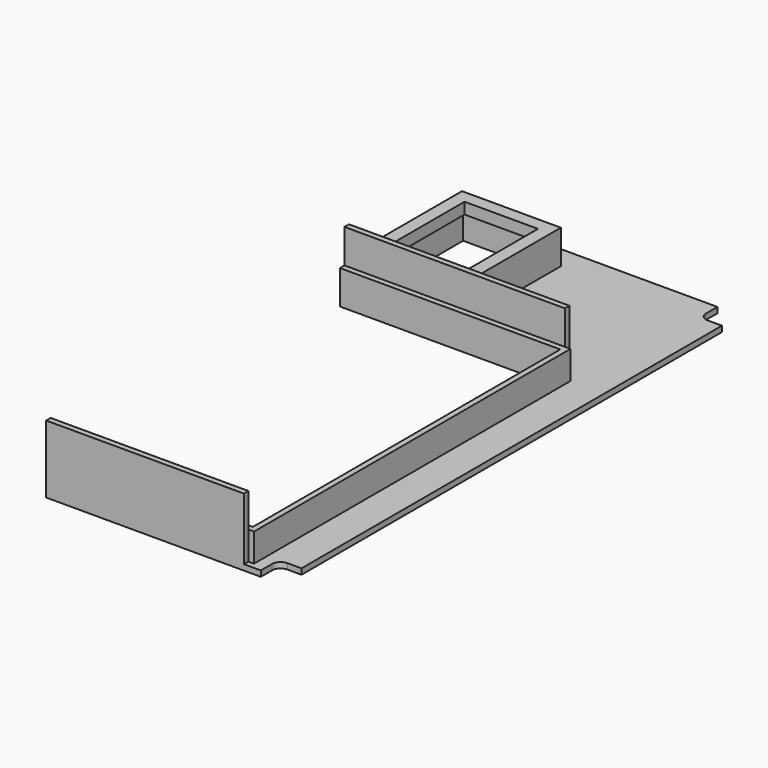
from build123d import *

# Parameters (mm, degrees)
F2_W      = 46
F2_H      = 101
F3_DEPTH  = 1
F5_DEPTH  = 1
F6_W      = 39
F6_H      = 68
F7_DEPTH  = 1
F8_W      = 39
F8_H      = 1
F8_W_2    = 35
F9_DEPTH  = 11
F10_W     = 1
F10_H     = 68
F11_DEPTH = 5
F12_W     = 17.5
F12_H     = 23.5
F12_W_2   = 15.5
F12_H_2   = 21.5
F13_DEPTH = 4
F14_W     = 15.5
F14_H     = 21.5
F15_DEPTH = 1
F16_W     = 17.5
F16_H     = 23.5
F16_W_2   = 13
F16_H_2   = 19
F17_DEPTH = 2


with BuildPart() as f3:
    # F2 (on Top) → F3 (new body)
    with BuildSketch(Plane.XY):
        Rectangle(F2_W, F2_H)
    extrude(amount=F3_DEPTH)

    # F4 (on face) → F5 (cut, through all)
    with BuildSketch(Plane.XY.offset(1)):
        with BuildLine():
            Line((-19, 50.5), (-23, 50.5))
            Line((-23, 50.5), (-23, 46.5))
            Line((-23, 46.5), (-20.5, 46.5))
            ThreePointArc((-20.5, 46.5), (-19.4393398282, 46.9393398282), (-19, 48))
            Line((-19, 48), (-19, 50.5))
        make_face()
        with BuildLine():
            Line((23, 46.5), (23, 50.5))
            Line((23, 50.5), (19, 50.5))
            Line((19, 50.5), (19, 48))
            ThreePointArc((19, 48), (19.4393398282, 46.9393398282), (20.5, 46.5))
            Line((20.5, 46.5), (23, 46.5))
        make_face()
        with BuildLine():
            Line((23, -46.5), (20.5, -46.5))
            ThreePointArc((20.5, -46.5), (19.4393398282, -46.9393398282), (19, -48))
            Line((19, -48), (19, -50.5))
            Line((19, -50.5), (23, -50.5))
            Line((23, -50.5), (23, -46.5))
        make_face()
        with BuildLine():
            ThreePointArc((-19, -48), (-19.4393398282, -46.9393398282), (-20.5, -46.5))
            Line((-20.5, -46.5), (-23, -46.5))
            Line((-23, -46.5), (-23, -50.5))
            Line((-23, -50.5), (-19, -50.5))
            Line((-19, -50.5), (-19, -48))
        make_face()
    extrude(amount=-F5_DEPTH, mode=Mode.SUBTRACT)

    # F6 (on face) → F7 (cut, through all)
    with BuildSketch(Plane.XY.offset(1)):
        with Locations((-3.5, -14.5)):
            Rectangle(F6_W, F6_H)
    extrude(amount=-F7_DEPTH, mode=Mode.SUBTRACT)

    # F8 (on face) → F9 (join)
    with BuildSketch(Plane.XY.offset(1)):
        with Locations((-3.5, 21)):
            Rectangle(F8_W, F8_H)
        with Locations((-1.5, -50)):
            Rectangle(F8_W_2, F8_H)
    extrude(amount=F9_DEPTH)

    # F10 (on face) → F11 (join)
    with BuildSketch(Plane.XY.offset(1)):
        Polygon((-23, 20.5), (-23, 19.5), (16, 19.5), (17, 19.5), (17, 20.5), align=None)
        with Locations((16.5, -14.5)):
            Rectangle(F10_W, F10_H)
        Polygon((17, -48.5), (16, -48.5), (-19, -48.5), (-19, -49.5), (17, -49.5), align=None)
    extrude(amount=F11_DEPTH)

    # F12 (on face) → F13 (join)
    with BuildSketch(Plane.XY.offset(1)):
        with Locations((-14.25, 34.75)):
            Rectangle(F12_W, F12_H)
        with Locations((-14.25, 34.75)):
            Rectangle(F12_W_2, F12_H_2, mode=Mode.SUBTRACT)
    extrude(amount=F13_DEPTH)

    # F14 (on face) → F15 (cut, through all)
    with BuildSketch(Plane.XY.offset(1)):
        with Locations((-14.25, 34.75)):
            Rectangle(F14_W, F14_H)
    extrude(amount=-F15_DEPTH, mode=Mode.SUBTRACT)

    # F16 (on face) → F17 (join)
    with BuildSketch(Plane.XY.offset(5)):
        with Locations((-14.25, 34.75)):
            Rectangle(F16_W, F16_H)
        with Locations((-14.25, 34.75)):
            Rectangle(F16_W_2, F16_H_2, mode=Mode.SUBTRACT)
    extrude(amount=F17_DEPTH)


solid = f3.part
